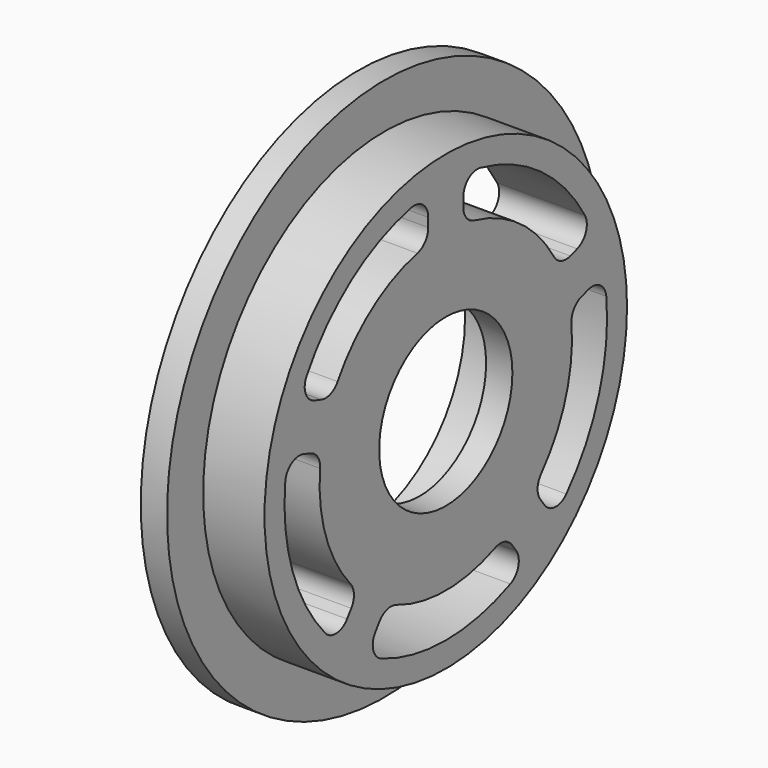
from build123d import *

# Parameters (mm, degrees)
F3_DEPTH = 25


with BuildPart() as f1:
    # F0 (on Top) → F1 (revolve)
    with BuildSketch(Plane.XY):
        Polygon((-3.832785, 31), (-3.832785, 15.25), (3.167215, 15.25), (3.167215, 9.5), (6.167215, 9.5), (6.167215, 25.85), (-0.832785, 25.85), (-0.832785, 31), align=None)
    revolve(axis=Axis((4.667215, 0, 0), (-1, 0, 0)))

    # F2 (on face) → F3 (cut)
    with BuildSketch(Plane(origin=(-3.832785, 0, 0), x_dir=(0, -1, 0), z_dir=(-1, 0, 0))):
        with BuildLine():
            ThreePointArc((-2.5, 20.512191), (-3.246434, 22.070579), (-4.928571, 22.465734))
            ThreePointArc((-4.928571, 22.465734), (-13.519061, 18.607391), (-19.84317, 11.629643))
            ThreePointArc((-19.84317, 11.629643), (-19.987165, 9.907726), (-18.735711, 8.716257))
            Line((-18.735711, 8.716257), (-17.760863, 8.39951))
            ThreePointArc((-17.760863, 8.39951), (-16.442461, 8.428261), (-15.428546, 9.27146))
            ThreePointArc((-15.428546, 9.27146), (-10.580135, 14.562306), (-4.05, 17.538458))
            ThreePointArc((-4.05, 17.538458), (-2.934752, 18.242185), (-2.5, 19.487175))
            Line((-2.5, 19.487175), (-2.5, 20.512191))
        make_face()
        with BuildLine():
            ThreePointArc((4.928571, 22.465734), (3.246434, 22.070579), (2.5, 20.512191))
            Line((2.5, 20.512191), (2.5, 19.487175))
            ThreePointArc((2.5, 19.487175), (2.934752, 18.242185), (4.05, 17.538458))
            ThreePointArc((4.05, 17.538458), (10.580135, 14.562306), (15.428546, 9.27146))
            ThreePointArc((15.428546, 9.27146), (16.442461, 8.428261), (17.760863, 8.39951))
            Line((17.760863, 8.39951), (18.735711, 8.716257))
            ThreePointArc((18.735711, 8.716257), (19.987165, 9.907726), (19.84317, 11.629643))
            ThreePointArc((19.84317, 11.629643), (13.519061, 18.607391), (4.928571, 22.465734))
        make_face()
        with BuildLine():
            ThreePointArc((22.889195, 2.254943), (21.993571, 3.732642), (20.280796, 3.960974))
            Line((20.280796, 3.960974), (19.305948, 3.644227))
            ThreePointArc((19.305948, 3.644227), (18.256238, 2.84603), (17.931583, 1.567903))
            ThreePointArc((17.931583, 1.567903), (17.119017, -5.562306), (13.585366, -11.80838))
            ThreePointArc((13.585366, -11.80838), (13.096752, -13.033234), (13.476817, -14.295993))
            Line((13.476817, -14.295993), (14.079306, -15.125248))
            ThreePointArc((14.079306, -15.125248), (15.599181, -15.947268), (17.192325, -15.278219))
            ThreePointArc((17.192325, -15.278219), (21.8743, -7.107391), (22.889195, 2.254943))
        make_face()
        with BuildLine():
            ThreePointArc((9.217729, -21.072102), (10.346341, -19.763679), (10.034221, -18.064175))
            Line((10.034221, -18.064175), (9.431732, -17.234919))
            ThreePointArc((9.431732, -17.234919), (8.348223, -16.483242), (7.032328, -16.569441))
            ThreePointArc((7.032328, -16.569441), (0, -18), (-7.032328, -16.569441))
            ThreePointArc((-7.032328, -16.569441), (-8.348223, -16.483242), (-9.431732, -17.234919))
            Line((-9.431732, -17.234919), (-10.034221, -18.064175))
            ThreePointArc((-10.034221, -18.064175), (-10.346341, -19.763679), (-9.217729, -21.072102))
            ThreePointArc((-9.217729, -21.072102), (0, -23), (9.217729, -21.072102))
        make_face()
        with BuildLine():
            ThreePointArc((-17.192325, -15.278219), (-15.599181, -15.947268), (-14.079306, -15.125248))
            Line((-14.079306, -15.125248), (-13.476817, -14.295993))
            ThreePointArc((-13.476817, -14.295993), (-13.096752, -13.033234), (-13.585366, -11.80838))
            ThreePointArc((-13.585366, -11.80838), (-17.119017, -5.562306), (-17.931583, 1.567903))
            ThreePointArc((-17.931583, 1.567903), (-18.256238, 2.84603), (-19.305948, 3.644227))
            Line((-19.305948, 3.644227), (-20.280796, 3.960974))
            ThreePointArc((-20.280796, 3.960974), (-21.993571, 3.732642), (-22.889195, 2.254943))
            ThreePointArc((-22.889195, 2.254943), (-21.8743, -7.107391), (-17.192325, -15.278219))
        make_face()
    extrude(amount=-F3_DEPTH, mode=Mode.SUBTRACT)


solid = f1.part
